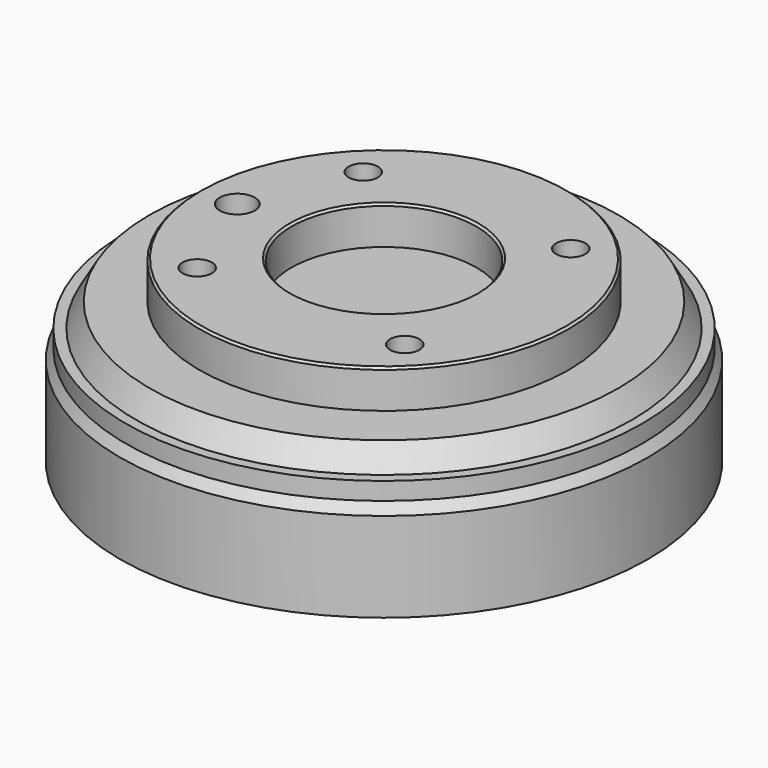
from build123d import *

# Parameters (mm, degrees)
F3_D     = 5
F3_DEPTH = 9
F3_TIP   = 1.5021515476
F4_D     = 6
F4_DEPTH = 6.2
F4_TIP   = 1.8025818571


with BuildPart() as f1:
    # F0 (on Front) → F1 (revolve)
    with BuildSketch(Plane.XZ):
        Polygon((0, 24), (0, 0), (45, 0), (45, 15.2679491924), (44, 17), (44, 20), (42.2679491924, 20), (39.9585481157, 24), (31.5, 24), (31.5, 30.1464466094), (31.1464466094, 30.5), (16.1035533906, 30.5), (15.75, 30.1464466094), (15.75, 24), align=None)
    revolve(axis=Axis((0, 0, 12), (0, 0, -1)))

    # F3
    with Locations(Plane.XY.offset(30.5)):
        with Locations((-17.6776695297, 17.6776695297), (-17.6776695297, -17.6776695297), (17.6776695297, 17.6776695297), (17.6776695297, -17.6776695297)):
            Hole(F3_D / 2, depth=F3_DEPTH)
            with Locations((0, 0, -(F3_DEPTH + F3_TIP / 2))):  # 118° drill point
                Cone(0, F3_D / 2, F3_TIP, mode=Mode.SUBTRACT)

    # F4
    with Locations(Plane.XY.offset(30.5)):
        with Locations((-25, 0)):
            Hole(F4_D / 2, depth=F4_DEPTH)
            with Locations((0, 0, -(F4_DEPTH + F4_TIP / 2))):  # 118° drill point
                Cone(0, F4_D / 2, F4_TIP, mode=Mode.SUBTRACT)


solid = f1.part
